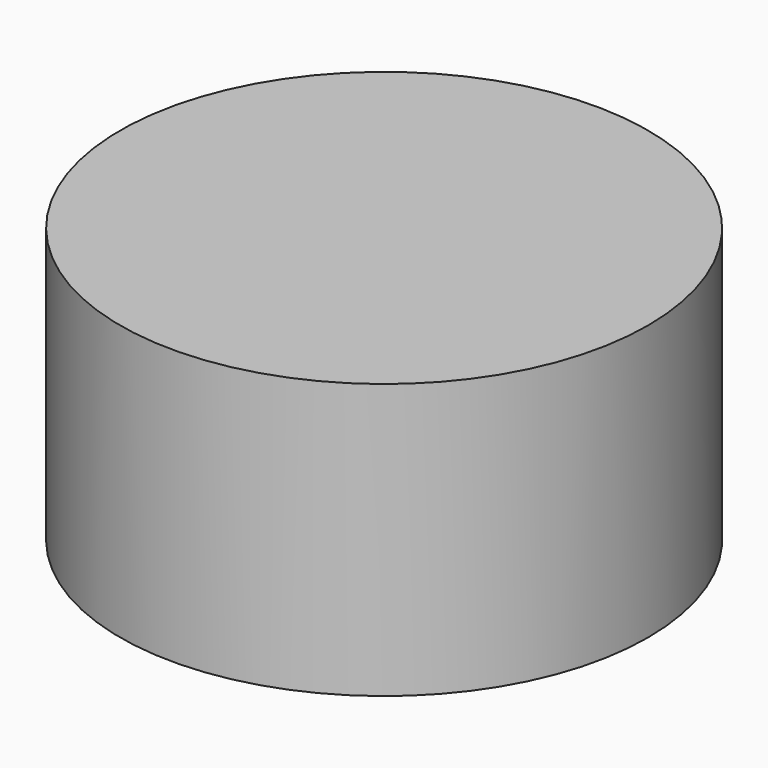
from build123d import *

# Parameters (mm, degrees)
SKETCH_R  = 9.608459
PAD_DEPTH = 10


with BuildPart() as part:
    # Sketch → Pad (new body)
    with BuildSketch(Plane.XY):
        Circle(SKETCH_R)
    extrude(amount=PAD_DEPTH)


solid = part.part
